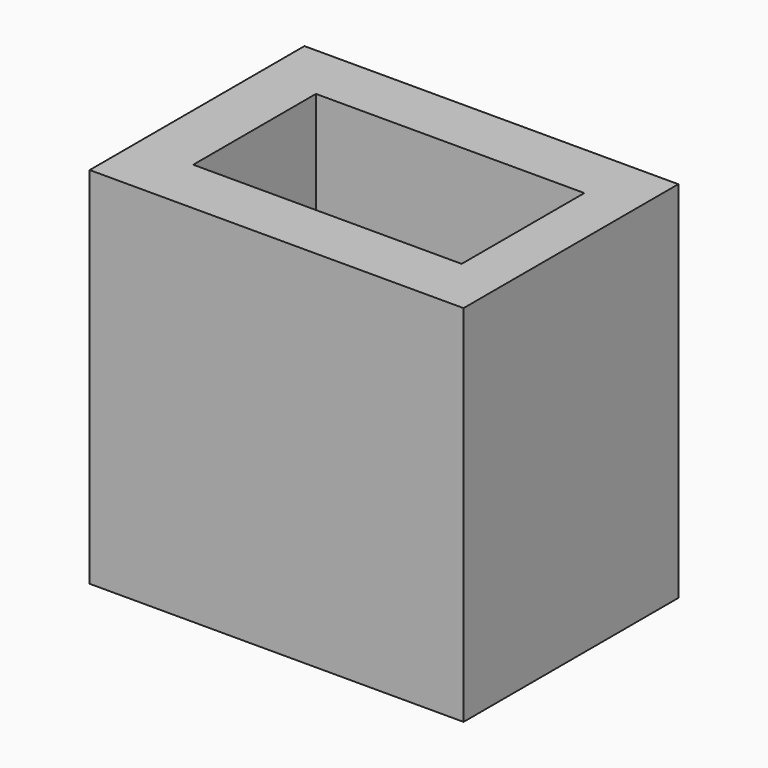
from build123d import *

# Parameters (mm, degrees)
BOX101_W     = 140
BOX101_H     = 80
BOX101_DEPTH = 190
BOX102_W     = 140
BOX102_H     = 80
BOX102_DEPTH = 190
BOX103_W     = 195
BOX103_H     = 140
BOX103_DEPTH = 190


with BuildPart() as cube073:
    # Box101 → Box101 (new body)
    with BuildSketch(Plane(origin=(220, 30, 0), x_dir=(1, 0, 0), z_dir=(0, 0, 1))):
        with Locations((70, 40)):
            Rectangle(BOX101_W, BOX101_H)
    extrude(amount=BOX101_DEPTH)


with BuildPart() as fusion017:
    # Box102 → Box102 (new body)
    with BuildSketch(Plane(origin=(30, 30, 0), x_dir=(1, 0, 0), z_dir=(0, 0, 1))):
        with Locations((70, 40)):
            Rectangle(BOX102_W, BOX102_H)
    extrude(amount=BOX102_DEPTH)

    # Fusion017: union Cube073
    add(cube073.part)


with BuildPart() as obj1:
    # Box103 → Box103 (new body)
    with BuildSketch(Plane.XY):
        with Locations((97.5, 70)):
            Rectangle(BOX103_W, BOX103_H)
    extrude(amount=BOX103_DEPTH)

    # Cut012: cut Fusion017
    add(fusion017.part, mode=Mode.SUBTRACT)


with BuildPart() as obj1_1:
    # Cut012 placement: moved
    add(obj1.part.moved(Location((825, 445, -590))))


solid = obj1_1.part
